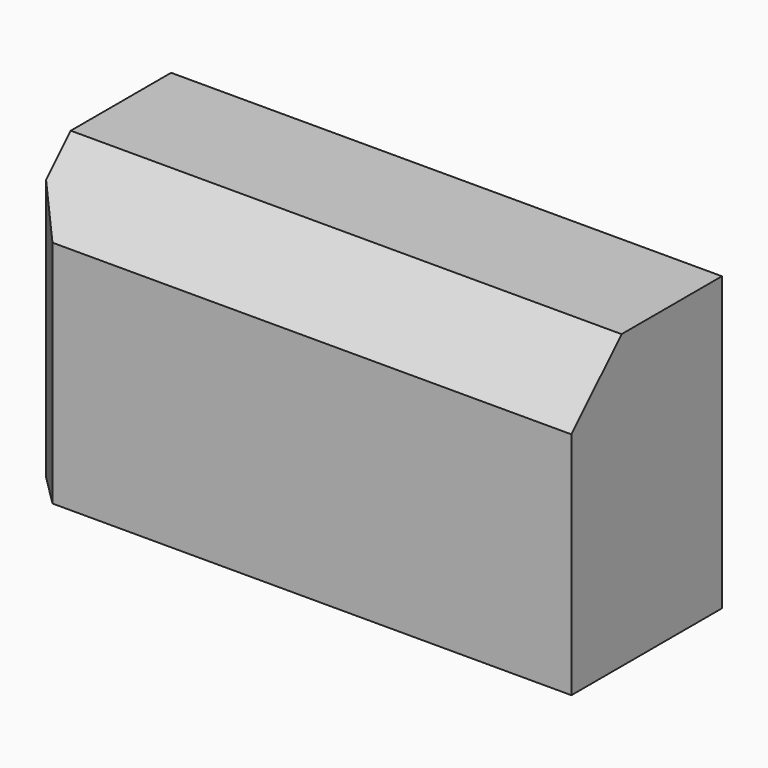
from build123d import *

# Parameters (mm, degrees)
F0_W     = 87.830528
F0_H     = 46.622368
F1_DEPTH = 30
F2_SIZE  = 5.08
F3_SIZE  = 10


with BuildPart() as f1:
    # F0 (on Front) → F1 (new body)
    with BuildSketch(Plane.XZ):
        with Locations((0.451185, 3.609474)):
            Rectangle(F0_W, F0_H)
    extrude(amount=F1_DEPTH)

    # F2
    f2_edges = [f1.edges().sort_by_distance(p)[0] for p in [
        (-43.464079, -30, 3.609474),
    ]]
    chamfer(f2_edges, length=F2_SIZE)

    # F3
    f3_edges = [f1.edges().sort_by_distance(p)[0] for p in [
        (2.991185, -30, 26.920658),
    ]]
    chamfer(f3_edges, length=F3_SIZE)


solid = f1.part
